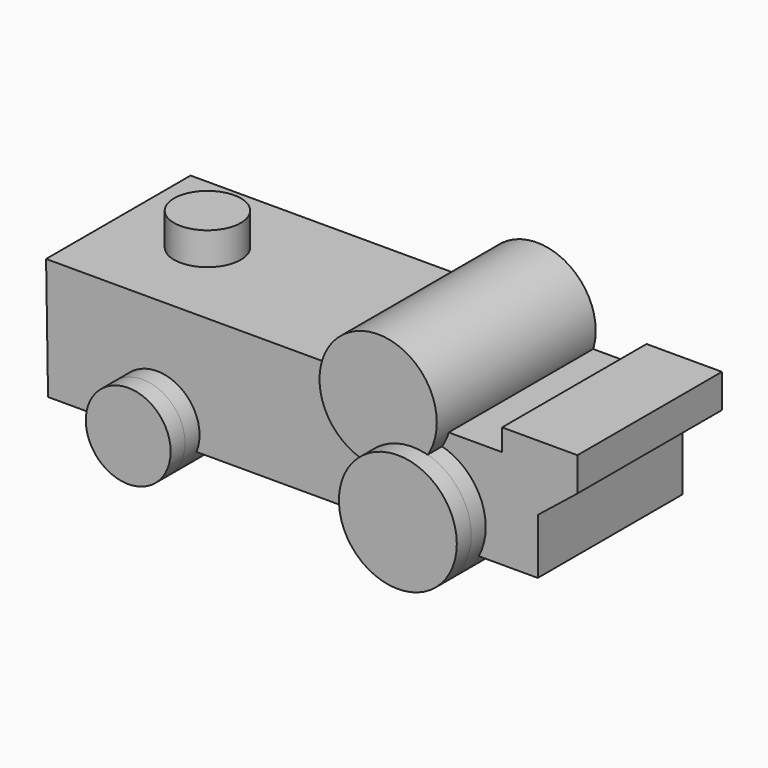
from build123d import *

# Parameters (mm, degrees)
F0_R     = 8.2907829743
F1_DEPTH = 25.4
F0_R_2   = 5.9676342743
F3_DEPTH = 25.4
F4_DEPTH = 2.54
F5_R     = 8.2475246833
F6_DEPTH = 27.94
F7_DEPTH = 2.54
F8_R     = 4.6964570027
F9_DEPTH = 25.4


with BuildPart() as f1:
    # F0 (on Front) → F1 (new body)
    with BuildSketch(Plane.XZ):
        with Locations((17.4299459904, 7.7305850573)):
            Circle(F0_R)
    extrude(amount=F1_DEPTH)


with BuildPart() as f1b:
    # F0 (on Front) → F1, piece 2 (new body)
    with BuildSketch(Plane.XZ):
        with Locations((-20.4935502261, 6.057490129)):
            Circle(F0_R_2)
    extrude(amount=F1_DEPTH)


with BuildPart() as f3:
    # F2 (on Front) → F3 (new body)
    with BuildSketch(Plane.XZ):
        Polygon((-36.1091047525, 20.8364985883), (-35.8302555978, 3.8266964257), (33.0455005169, 3.8266964257), (33.0455005169, 11.6344736889), (38.6224836111, 16.0960629582), (38.6224836111, 20.8364985883), (28.0262120068, 20.8364985883), (28.0262120068, 17.7691578865), (18.5453407466, 17.7691578865), (18.5453407466, 20.8364985883), align=None)
    extrude(amount=F3_DEPTH)


with BuildPart() as f4:
    # F4 (new): a face of the model
    f4_faces = [f1b.part.faces().sort_by_distance(p)[0] for p in [
        (-20.4935502261, -25.4, 6.057490129),
    ]]
    extrude(f4_faces, amount=F4_DEPTH)


with BuildPart() as f4b:
    # F4#2 (new): a face of the model
    f4_2_faces = [f1.part.faces().sort_by_distance(p)[0] for p in [
        (17.4299459904, -25.4, 7.7305850573),
    ]]
    extrude(f4_2_faces, amount=F4_DEPTH)


with BuildPart() as f6:
    # F5 (on Front) → F6 (new body)
    with BuildSketch(Plane.XZ):
        with Locations((12.6256905496, 20.1443620026)):
            Circle(F5_R)
    extrude(amount=F6_DEPTH)


with BuildPart() as f7:
    # F7 (new): a face of the model
    f7_faces = [f4.part.faces().sort_by_distance(p)[0] for p in [
        (-20.4935502261, -27.94, 6.057490129),
    ]]
    extrude(f7_faces, amount=F7_DEPTH)


with BuildPart() as f7b:
    # F7#2 (new): a face of the model
    f7_2_faces = [f4b.part.faces().sort_by_distance(p)[0] for p in [
        (17.4299459904, -27.94, 7.7305850573),
    ]]
    extrude(f7_2_faces, amount=F7_DEPTH)


with BuildPart() as f9:
    # F8 (on Top) → F9 (new body)
    with BuildSketch(Plane.XY):
        with Locations((-23.9746272564, -12.2001068667)):
            Circle(F8_R)
    extrude(amount=F9_DEPTH)


solid = Compound([f1.part, f1b.part, f3.part, f4.part, f4b.part, f6.part, f7.part, f7b.part, f9.part])
